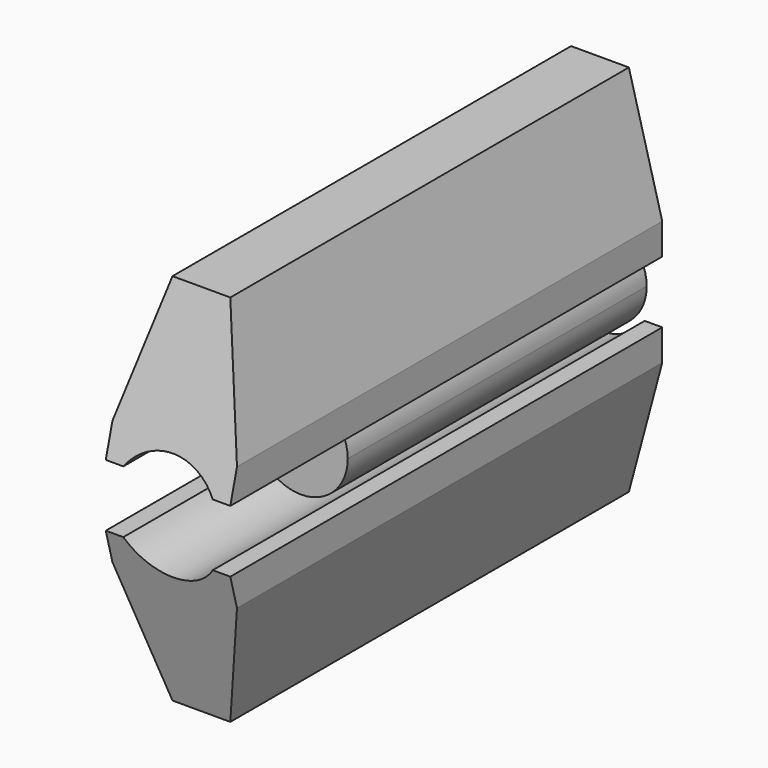
from build123d import *

# Parameters (mm, degrees)
F1_DEPTH  = 25.4
F1_FACE_W = 50.8
F1_FACE_H = 65.740037456
F3_DEPTH  = 220.2157737194
F5_DEPTH  = 220.2157737194
F6_DEPTH  = 152.4


with BuildPart() as f1:
    # F0 (on Right) → F1 (new body, symmetric)
    with BuildSketch(Plane.YZ):
        Polygon((-220.2147737194, 0), (0, 0), (0, 63.5), (-203.2, 63.5), align=None)
    extrude(amount=F1_DEPTH, both=True)


with BuildPart() as f1b:
    # F0 (on Right) → F1, piece 2 (new body, symmetric)
    with BuildSketch(Plane.YZ):
        Polygon((0, -88.9), (0, -25.4), (-220.2147737194, -25.4), (-203.2, -88.9), align=None)
    extrude(amount=F1_DEPTH, both=True)


with BuildPart() as f3_tool:
    # F2 (on Front) + F1_face (on face) → F3 (new body, through all)
    with BuildSketch(Plane.XZ):
        with BuildLine():
            Line((0, -25.4), (0, 0))
            Line((0, 0), (-14.1990316571, 0))
            ThreePointArc((-14.1990316571, 0), (-19.05, -12.7), (-14.1990316571, -25.4))
            Line((-14.1990316571, -25.4), (0, -25.4))
        make_face()
        with BuildLine():
            ThreePointArc((19.05, -12.7), (17.7959834382, -5.9025391898), (14.1990316571, 0))
            Line((14.1990316571, 0), (0, 0))
            Line((0, 0), (0, -25.4))
            Line((0, -25.4), (14.1990316571, -25.4))
            ThreePointArc((14.1990316571, -25.4), (17.7959834382, -19.4974608102), (19.05, -12.7))
        make_face()
        with BuildLine():
            Line((14.1990316571, -25.4), (0, -25.4))
            Line((0, -25.4), (-14.1990316571, -25.4))
            ThreePointArc((-14.1990316571, -25.4), (0, -31.75), (14.1990316571, -25.4))
        make_face()
        with BuildLine():
            Line((0, 0), (14.1990316571, 0))
            ThreePointArc((14.1990316571, 0), (0, 6.35), (-14.1990316571, 0))
            Line((-14.1990316571, 0), (0, 0))
        make_face()
        with BuildLine():
            ThreePointArc((22.225, -12.7), (21.2050948807, -6.0445829508), (18.2389864028, 0))
            Line((18.2389864028, 0), (14.1990316571, 0))
            ThreePointArc((14.1990316571, 0), (17.7959834382, -5.9025391898), (19.05, -12.7))
            ThreePointArc((19.05, -12.7), (17.7959834382, -19.4974608102), (14.1990316571, -25.4))
            Line((14.1990316571, -25.4), (18.2389864028, -25.4))
            ThreePointArc((18.2389864028, -25.4), (21.2050948807, -19.3554170492), (22.225, -12.7))
        make_face()
        with BuildLine():
            Line((-14.1990316571, 0), (-18.2389864028, 0))
            ThreePointArc((-18.2389864028, 0), (-22.225, -12.7), (-18.2389864028, -25.4))
            Line((-18.2389864028, -25.4), (-14.1990316571, -25.4))
            ThreePointArc((-14.1990316571, -25.4), (-19.05, -12.7), (-14.1990316571, 0))
        make_face()
        with BuildLine():
            Line((14.1990316571, 0), (18.2389864028, 0))
            ThreePointArc((18.2389864028, 0), (0, 9.525), (-18.2389864028, 0))
            Line((-18.2389864028, 0), (-14.1990316571, 0))
            ThreePointArc((-14.1990316571, 0), (0, 6.35), (14.1990316571, 0))
        make_face()
        with BuildLine():
            ThreePointArc((-18.2389864028, -25.4), (0, -34.925), (18.2389864028, -25.4))
            Line((18.2389864028, -25.4), (14.1990316571, -25.4))
            ThreePointArc((14.1990316571, -25.4), (0, -31.75), (-14.1990316571, -25.4))
            Line((-14.1990316571, -25.4), (-18.2389864028, -25.4))
        make_face()
    with BuildSketch(Plane(origin=(0, -211.7073868597, 31.75), x_dir=(1, 0, 0), z_dir=(0, -0.9659258263, 0.2588190451))):
        Rectangle(F1_FACE_W, F1_FACE_H)
    extrude(amount=F3_DEPTH, dir=(0, -1, 0))


with BuildPart() as f1_1:
    add(f1.part)

    # F3: cut by f3_tool
    add(f3_tool.part, mode=Mode.SUBTRACT)


with BuildPart() as f1b_1:
    add(f1b.part)

    # F3: cut by f3_tool
    add(f3_tool.part, mode=Mode.SUBTRACT)


with BuildPart() as f5_tool:
    # F4 (on Front) → F5 (new body, through all)
    with BuildSketch(Plane.XZ):
        Polygon((-25.4, -88.9), (-11.7881810245, -88.9), (-25.4, -38.1), align=None)
        Polygon((25.4, -88.9), (25.4, -38.1), (11.7881810245, -88.9), align=None)
        Polygon((25.4, 12.7), (25.4, 63.5), (11.7881810245, 63.5), align=None)
        Polygon((-25.4, 12.7), (-11.7881810245, 63.5), (-25.4, 63.5), align=None)
    extrude(amount=F5_DEPTH)


with BuildPart() as f1_2:
    add(f1_1.part)

    # F5: cut by f5_tool
    add(f5_tool.part, mode=Mode.SUBTRACT)


with BuildPart() as f1b_2:
    add(f1b_1.part)

    # F5: cut by f5_tool
    add(f5_tool.part, mode=Mode.SUBTRACT)


with BuildPart() as f6:
    # F2 (on Front) → F6 (new body)
    with BuildSketch(Plane.XZ):
        with BuildLine():
            Line((0, -25.4), (0, 0))
            Line((0, 0), (-14.1990316571, 0))
            ThreePointArc((-14.1990316571, 0), (-19.05, -12.7), (-14.1990316571, -25.4))
            Line((-14.1990316571, -25.4), (0, -25.4))
        make_face()
        with BuildLine():
            ThreePointArc((19.05, -12.7), (17.7959834382, -5.9025391898), (14.1990316571, 0))
            Line((14.1990316571, 0), (0, 0))
            Line((0, 0), (0, -25.4))
            Line((0, -25.4), (14.1990316571, -25.4))
            ThreePointArc((14.1990316571, -25.4), (17.7959834382, -19.4974608102), (19.05, -12.7))
        make_face()
        with BuildLine():
            Line((0, 0), (14.1990316571, 0))
            ThreePointArc((14.1990316571, 0), (0, 6.35), (-14.1990316571, 0))
            Line((-14.1990316571, 0), (0, 0))
        make_face()
        with BuildLine():
            Line((14.1990316571, -25.4), (0, -25.4))
            Line((0, -25.4), (-14.1990316571, -25.4))
            ThreePointArc((-14.1990316571, -25.4), (0, -31.75), (14.1990316571, -25.4))
        make_face()
    extrude(amount=F6_DEPTH)


solid = Compound([f1_2.part, f1b_2.part, f6.part])
